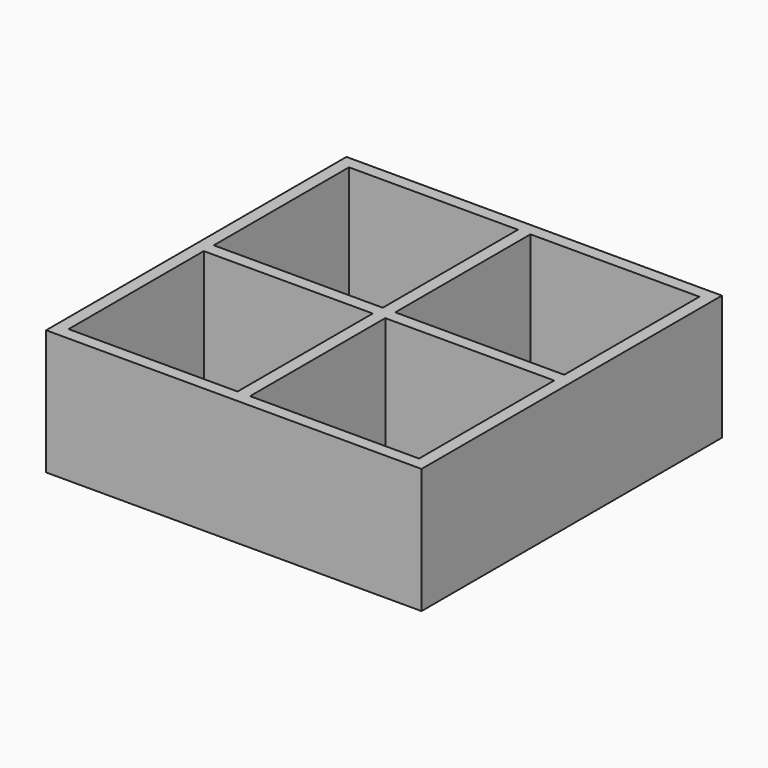
from build123d import *

# Parameters (mm, degrees)
F0_W     = 150
F0_H     = 150
F1_DEPTH = 50
F2_W     = 67.5
F2_H     = 67.5
F2_W_2   = 67.499992
F2_H_2   = 67.499992
F3_DEPTH = 45


with BuildPart() as f1:
    # F0 (on Top) → F1 (new body)
    with BuildSketch(Plane.XY):
        with Locations((3.078443, 2.859835)):
            Rectangle(F0_W, F0_H)
    extrude(amount=F1_DEPTH)

    # F2 (on face) → F3 (cut)
    with BuildSketch(Plane.XY.offset(50)):
        with Locations((-33.171553, 39.109831)):
            Rectangle(F2_W, F2_H)
        with Locations((39.328443, 39.109831)):
            Rectangle(F2_W_2, F2_H)
        with Locations((-33.171553, -33.390165)):
            Rectangle(F2_W, F2_H_2)
        with Locations((39.328443, -33.390165)):
            Rectangle(F2_W_2, F2_H_2)
    extrude(amount=-F3_DEPTH, mode=Mode.SUBTRACT)


solid = f1.part
